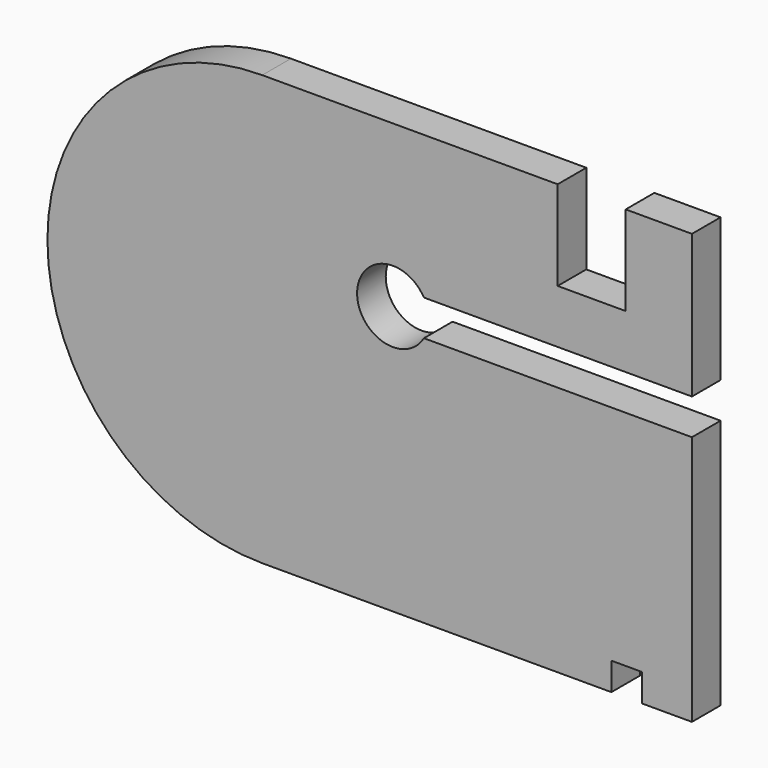
from build123d import *

# Parameters (mm, degrees)
PAD_DEPTH = 1


with BuildPart() as part:
    # Sketch → Pad (new body, symmetric)
    with BuildSketch(Plane.XZ):
        with BuildLine():
            Line((-15, -12), (4.5, -12))
            Line((4.5, -10.45), (4.5, -12))
            Line((6.2, -10.45), (4.5, -10.45))
            Line((6.2, -12), (6.2, -10.45))
            Line((6.2, -12), (9, -12))
            Line((9, -12), (9, 2))
            Line((-5.9714, 2), (9, 2))
            ThreePointArc((-5.9714, 4), (-9.70345, 3), (-5.9714, 2))
            Line((9, 4), (-5.9714, 4))
            Line((9, 12), (9, 4))
            Line((9, 12), (5.3, 12))
            Line((5.3, 7), (5.3, 12))
            Line((1.5, 7), (5.3, 7))
            Line((1.5, 12), (1.5, 7))
            Line((1.5, 12), (-15, 12))
            ThreePointArc((-15, 12), (-27, 0), (-15, -12))
        make_face()
    extrude(amount=PAD_DEPTH, both=True)


solid = part.part
